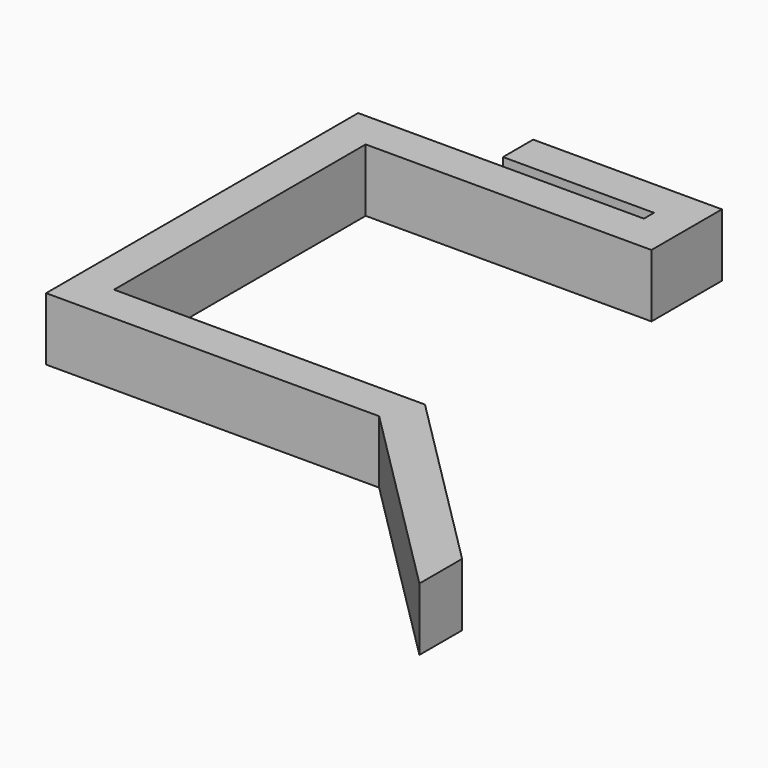
from build123d import *

# Parameters (mm, degrees)
F1_DEPTH = 5


with BuildPart() as f1:
    # F0 (on Top) → F1 (new body)
    with BuildSketch(Plane.XY):
        Polygon((-24.074192, 6.256421), (-24.074192, 13.256421), (-39.074192, 13.256421), (-39.074192, 10.256421), (-27.074192, 10.256421), (-27.074192, 9.256421), (-39.074192, 9.256421), (-49.787901, 9.256421), (-49.787901, -21.743579), (-39.074192, -21.743579), (-23.316833, -21.743579), (-7.316833, -37.743579), (-7.316833, -33.500938), (-22.074192, -18.743579), (-36.074192, -18.743579), (-46.787901, -18.743579), (-46.787901, 6.256421), (-36.074192, 6.256421), align=None)
    extrude(amount=F1_DEPTH)


solid = f1.part
